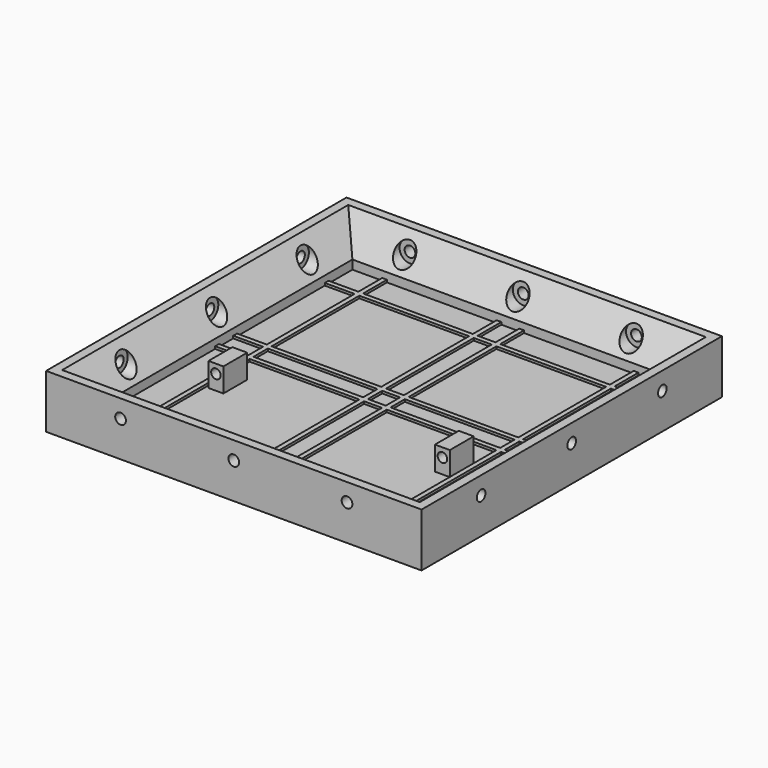
from build123d import *

# Parameters (mm, degrees)
SKETCH_W        = 160.02
SKETCH_H        = 160.02
PAD_DEPTH       = 5.08
SKETCH001_W     = 2.032
SKETCH001_H     = 160.02
PAD001_DEPTH    = 1.016
SKETCH002_W     = 160.02
SKETCH002_H     = 2.032
PAD002_DEPTH    = 1.016
SKETCH003_W     = 6.35
SKETCH003_H     = 12.7
PAD003_DEPTH    = 10.16
SKETCH004_R     = 2.032
POCKET_DEPTH    = 12.7
PAD004_DEPTH    = 160.02
PAD005_DEPTH    = 160.02
SKETCH007_R     = 4.445
POCKET001_DEPTH = 6.858
SKETCH008_R     = 2.286
POCKET002_DEPTH = 12.7
SKETCH009_R     = 4.445
POCKET003_DEPTH = 6.858
SKETCH010_R     = 2.286
POCKET004_DEPTH = 12.7
SKETCH011_R     = 4.445
POCKET005_DEPTH = 6.858
SKETCH012_R     = 3.81
POCKET006_DEPTH = 6.858
SKETCH013_R     = 2.286
POCKET007_DEPTH = 12.7
SKETCH014_R     = 2.286
POCKET008_DEPTH = 12.7


with BuildPart() as part:
    # Sketch → Pad (new body)
    with BuildSketch(Plane.XY):
        with Locations((-8.701914, -21.351993)):
            Rectangle(SKETCH_W, SKETCH_H)
    extrude(amount=PAD_DEPTH)

    # Sketch001 (on Face6 of Pad) → Pad001 (join)
    with BuildSketch(Plane.XY.offset(5.08)):
        with Locations((-62.295914, -21.351993)):
            Rectangle(SKETCH001_W, SKETCH001_H)
        with Locations((44.892086, -21.351993)):
            Rectangle(SKETCH001_W, SKETCH001_H)
        with Locations((-13.527914, -21.351993)):
            Rectangle(SKETCH001_W, SKETCH001_H)
        with Locations((-3.875914, -21.351993)):
            Rectangle(SKETCH001_W, SKETCH001_H)
    extrude(amount=PAD001_DEPTH)

    # Sketch002 (on Face9 of Pad001) → Pad002 (join)
    with BuildSketch(Plane.XY.offset(5.08)):
        with Locations((-8.701914, 32.242007)):
            Rectangle(SKETCH002_W, SKETCH002_H)
        with Locations((-8.701914, -16.525993)):
            Rectangle(SKETCH002_W, SKETCH002_H)
        with Locations((-8.701914, -26.177993)):
            Rectangle(SKETCH002_W, SKETCH002_H)
        with Locations((-8.701914, -74.945993)):
            Rectangle(SKETCH002_W, SKETCH002_H)
    extrude(amount=PAD002_DEPTH)

    # Sketch003 (on Face164 of Pad002) → Pad003 (join)
    with BuildSketch(Plane.XY.offset(5.08)):
        with Locations((-56.961914, -44.211993)):
            Rectangle(SKETCH003_W, SKETCH003_H)
        with Locations((39.558086, -44.211993)):
            Rectangle(SKETCH003_W, SKETCH003_H)
    extrude(amount=PAD003_DEPTH)

    # Sketch004 (on Face174 of Pad003) → Pocket (cut)
    with BuildSketch(Plane.XZ.offset(50.561993)):
        with Locations((39.558086, 11.43)):
            Circle(SKETCH004_R)
        with Locations((-56.961914, 11.43)):
            Circle(SKETCH004_R)
    extrude(amount=-POCKET_DEPTH, mode=Mode.SUBTRACT)

    # Sketch005 (on Face14 of Pocket) → Pad004 (join)
    with BuildSketch(Plane.XZ.offset(101.361993)):
        Polygon((-88.711914, 5.08), (-88.711914, 22.86), (-84.901914, 22.86), (-76.011914, 8.89), (-76.011914, 5.08), align=None)
        Polygon((71.308086, 22.86), (67.498086, 22.86), (58.608086, 8.89), (58.608086, 5.08), (71.308086, 5.08), align=None)
    extrude(amount=-PAD004_DEPTH)

    # Sketch006 (on Face3 of Pad004) → Pad005 (join)
    with BuildSketch(Plane.YZ.offset(71.308086)):
        Polygon((-101.361993, 5.08), (-101.361993, 22.86), (-97.551993, 22.86), (-88.661993, 8.89), (-88.661993, 5.08), align=None)
        Polygon((58.658007, 5.08), (58.658007, 22.86), (54.848007, 22.86), (45.958007, 8.89), (45.958007, 5.08), align=None)
    extrude(amount=-PAD005_DEPTH)

    # Sketch007 (on Face66 of Pad005) → Pocket001 (cut)
    with BuildSketch(Plane(origin=(0, -88.661993, 0), x_dir=(-1, 0, 0), z_dir=(0, 1, 0))):
        with Locations((-39.558086, 15.24)):
            Circle(SKETCH007_R)
        with Locations((56.961914, 15.24)):
            Circle(SKETCH007_R)
        with Locations((8.701914, 15.24)):
            Circle(SKETCH007_R)
    extrude(amount=-POCKET001_DEPTH, mode=Mode.SUBTRACT)

    # Sketch008 (on Face66 of Pad005) → Pocket002 (cut)
    with BuildSketch(Plane(origin=(0, -88.661993, 0), x_dir=(-1, 0, 0), z_dir=(0, 1, 0))):
        with Locations((-39.558086, 15.24)):
            Circle(SKETCH008_R)
        with Locations((56.961914, 15.24)):
            Circle(SKETCH008_R)
        with Locations((8.701914, 15.24)):
            Circle(SKETCH008_R)
    extrude(amount=-POCKET002_DEPTH, mode=Mode.SUBTRACT)

    # Sketch009 (on Face53 of Pocket002) → Pocket003 (cut)
    with BuildSketch(Plane.YZ.offset(-76.011914)):
        with Locations((-69.611993, 15.24)):
            Circle(SKETCH009_R)
        with Locations((-21.351993, 15.24)):
            Circle(SKETCH009_R)
        with Locations((26.908007, 15.24)):
            Circle(SKETCH009_R)
    extrude(amount=-POCKET003_DEPTH, mode=Mode.SUBTRACT)

    # Sketch010 (on Face53 of Pocket003) → Pocket004 (cut)
    with BuildSketch(Plane.YZ.offset(-76.011914)):
        with Locations((-69.611993, 15.24)):
            Circle(SKETCH010_R)
        with Locations((-21.351993, 15.24)):
            Circle(SKETCH010_R)
        with Locations((26.908007, 15.24)):
            Circle(SKETCH010_R)
    extrude(amount=-POCKET004_DEPTH, mode=Mode.SUBTRACT)

    # Sketch011 (on Face54 of Pocket004) → Pocket005 (cut)
    with BuildSketch(Plane.XZ.offset(-45.958007)):
        with Locations((-56.961914, 15.24)):
            Circle(SKETCH011_R)
        with Locations((-8.701914, 15.24)):
            Circle(SKETCH011_R)
        with Locations((39.558086, 15.24)):
            Circle(SKETCH011_R)
    extrude(amount=-POCKET005_DEPTH, mode=Mode.SUBTRACT)

    # Sketch012 (on Face75 of Pocket005) → Pocket006 (cut)
    with BuildSketch(Plane(origin=(58.608086, 0, 0), x_dir=(0, -1, 0), z_dir=(-1, 0, 0))):
        with Locations((-26.908007, 15.24)):
            Circle(SKETCH012_R)
        with Locations((21.351993, 15.24)):
            Circle(SKETCH012_R)
        with Locations((69.611993, 15.24)):
            Circle(SKETCH012_R)
    extrude(amount=-POCKET006_DEPTH, mode=Mode.SUBTRACT)

    # Sketch013 (on Face75 of Pocket005) → Pocket007 (cut)
    with BuildSketch(Plane(origin=(58.608086, 0, 0), x_dir=(0, -1, 0), z_dir=(-1, 0, 0))):
        with Locations((-26.908007, 15.24)):
            Circle(SKETCH013_R)
        with Locations((21.351993, 15.24)):
            Circle(SKETCH013_R)
        with Locations((69.611993, 15.24)):
            Circle(SKETCH013_R)
    extrude(amount=-POCKET007_DEPTH, mode=Mode.SUBTRACT)

    # Sketch014 (on Face54 of Pocket004) → Pocket008 (cut)
    with BuildSketch(Plane.XZ.offset(-45.958007)):
        with Locations((-56.961914, 15.24)):
            Circle(SKETCH014_R)
        with Locations((-8.701914, 15.24)):
            Circle(SKETCH014_R)
        with Locations((39.558086, 15.24)):
            Circle(SKETCH014_R)
    extrude(amount=-POCKET008_DEPTH, mode=Mode.SUBTRACT)


solid = part.part
